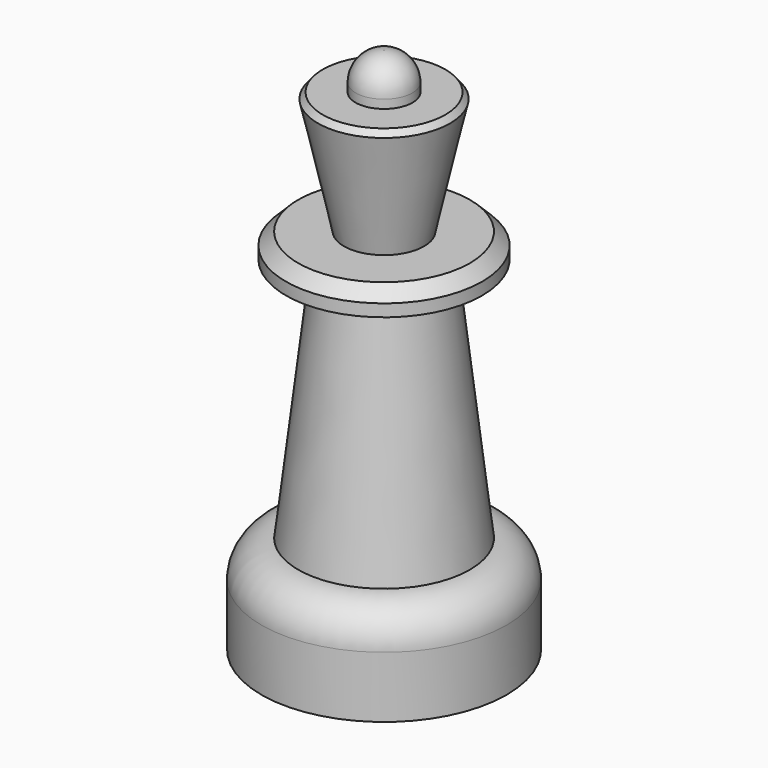
from build123d import *

# Parameters (mm, degrees)
F0_R      = 10
F1_DEPTH  = 5
F2_DEPTH  = 3
F3_R      = 3
F2_FACE_R = 7
F5_R      = 4.6788722556
F7_R      = 8
F7_R_2    = 4.6788722556
F8_DEPTH  = 2
F9_SIZE   = 1
F10_R     = 3.2686938503
F12_R     = 5.5
F14_SIZE  = 0.5
F15_R     = 2.3205955221
F16_DEPTH = 3
F17_R     = 2.3


with BuildPart() as f1:
    # F0 (on Top) → F1 (new body)
    with BuildSketch(Plane.XY):
        Circle(F0_R)
    extrude(amount=F1_DEPTH)

    # F2 (add): a face of the model
    f2_faces = [f1.faces().sort_by_distance(p)[0] for p in [
        (0, 0, 5),
    ]]
    extrude(f2_faces, amount=F2_DEPTH)

    # F3
    f3_edges = [f1.edges().sort_by_distance(p)[0] for p in [
        (-10, 0, 8),
    ]]
    fillet(f3_edges, radius=F3_R)

    # F2_face (on face) → F6 section 0
    with BuildSketch(Plane.XY.offset(8)):
        Circle(F2_FACE_R)
    # F5 (on offset) → F6 section 1
    with BuildSketch(Plane.XY.offset(28)):
        Circle(F5_R)
    loft()

    # F7 (on face) → F8 (join)
    with BuildSketch(Plane.XY.offset(28)):
        Circle(F7_R)
        Circle(F7_R_2, mode=Mode.SUBTRACT)
        Circle(F7_R_2)
    extrude(amount=F8_DEPTH)

    # F9
    f9_edges = [f1.edges().sort_by_distance(p)[0] for p in [
        (-8, 0, 30),
    ]]
    chamfer(f9_edges, length=F9_SIZE)

    # F10 (on face) → F13 section 0
    with BuildSketch(Plane.XY.offset(30)):
        Circle(F10_R)
    # F12 (on offset) → F13 section 1
    with BuildSketch(Plane.XY.offset(40)):
        Circle(F12_R)
    loft()

    # F14
    f14_edges = [f1.edges().sort_by_distance(p)[0] for p in [
        (-5.5, 0, 40),
    ]]
    chamfer(f14_edges, length=F14_SIZE)

    # F15 (on face) → F16 (join)
    with BuildSketch(Plane.XY.offset(40)):
        Circle(F15_R)
    extrude(amount=F16_DEPTH)

    # F17
    f17_edges = [f1.edges().sort_by_distance(p)[0] for p in [
        (-2.320596, 0, 43),
    ]]
    fillet(f17_edges, radius=F17_R)


solid = f1.part
